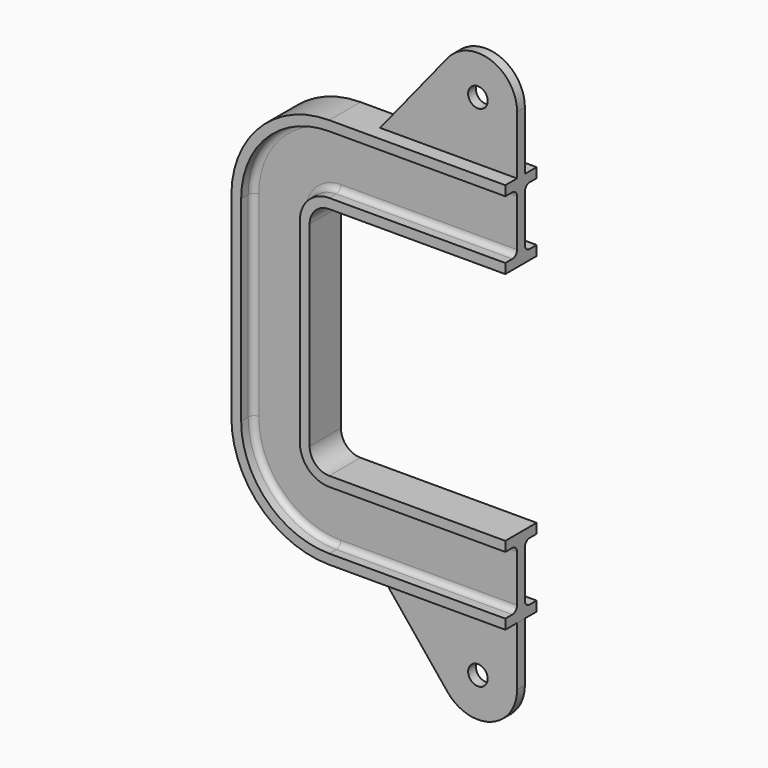
from build123d import *

# Parameters (mm, degrees)
F3_R     = 5
F4_DEPTH = 2.5
F5_R     = 5
F6_DEPTH = 2.5


with BuildPart() as f2:
    # F2: sweep along a path in F0
    with BuildLine(Plane.XZ) as f2_path:
        Line((0, 60), (-90, 60))
        ThreePointArc((-90, 60), (-97.071068, 57.071068), (-100, 50))
        Line((-100, 50), (-100, 0))
        Line((-100, 0), (-100, -50))
        ThreePointArc((-100, -50), (-97.071068, -57.071068), (-90, -60))
        Line((-90, -60), (0, -60))
    # F1 (on Right) → F2 (sweep)
    with BuildSketch(Plane.YZ):
        with BuildLine():
            Line((-10, 60), (0, 60))
            Line((0, 60), (10, 60))
            Line((10, 60), (10, 65))
            Line((10, 65), (5.5, 65))
            ThreePointArc((5.5, 65), (3.37868, 65.87868), (2.5, 68))
            Line((2.5, 68), (2.5, 92))
            ThreePointArc((2.5, 92), (3.37868, 94.12132), (5.5, 95))
            Line((5.5, 95), (10, 95))
            Line((10, 95), (10, 100))
            Line((10, 100), (0, 100))
            Line((0, 100), (-10, 100))
            Line((-10, 100), (-10, 95))
            Line((-10, 95), (-5.5, 95))
            ThreePointArc((-5.5, 95), (-3.37868, 94.12132), (-2.5, 92))
            Line((-2.5, 92), (-2.5, 68))
            ThreePointArc((-2.5, 68), (-3.37868, 65.87868), (-5.5, 65))
            Line((-5.5, 65), (-10, 65))
            Line((-10, 65), (-10, 60))
        make_face()
    sweep(path=f2_path.line)

    # F3 (on Front) → F4 (join, symmetric)
    with BuildSketch(Plane.XZ):
        with BuildLine():
            Line((-70, 100), (0, 100))
            Line((0, 100), (0, 130))
            ThreePointArc((0, 130), (-13.327703, 148.854189), (-35.548045, 142.580075))
            Line((-35.548045, 142.580075), (-70, 100))
        make_face()
        with Locations((-20, 130)):
            Circle(F3_R, mode=Mode.SUBTRACT)
    extrude(amount=F4_DEPTH, both=True)

    # F5 (on Front) → F6 (join, symmetric)
    with BuildSketch(Plane.XZ):
        with BuildLine():
            Line((0, -130), (0, -100))
            Line((0, -100), (-70, -100))
            Line((-70, -100), (-35.548045, -142.580075))
            ThreePointArc((-35.548045, -142.580075), (-13.327703, -148.854189), (0, -130))
        make_face()
        with Locations((-20, -130)):
            Circle(F5_R, mode=Mode.SUBTRACT)
    extrude(amount=F6_DEPTH, both=True)


solid = f2.part
